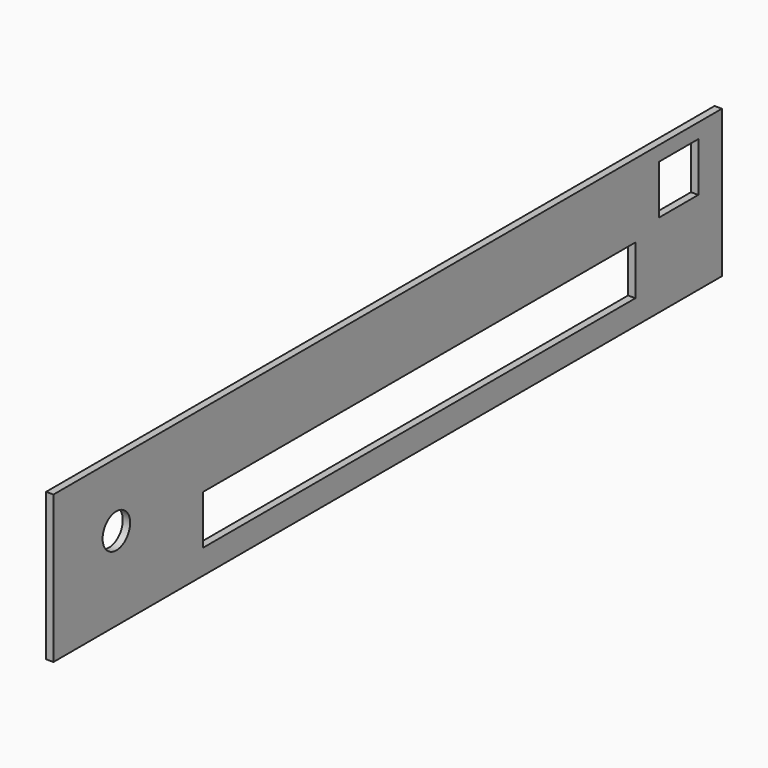
from build123d import *

# Parameters (mm, degrees)
BOX021_W          = 10
BOX021_H          = 10
BOX021_DEPTH      = 10
BOX004_W          = 10
BOX004_H          = 110
BOX004_DEPTH      = 10
CYLINDER004_R     = 3.5
CYLINDER004_DEPTH = 10
BOX002_W          = 1.5
BOX002_H          = 170
BOX002_DEPTH      = 30


with BuildPart() as reset:
    # Box021 → Box021 (new body)
    with BuildSketch(Plane(origin=(-2, 154, 7), x_dir=(1, 0, 0), z_dir=(0, 0, 1))):
        with Locations((5, 5)):
            Rectangle(BOX021_W, BOX021_H)
    extrude(amount=BOX021_DEPTH)


with BuildPart() as cube003:
    # Box004 → Box004 (new body)
    with BuildSketch(Plane(origin=(-3, 38, -5), x_dir=(1, 0, 0), z_dir=(0, 0, 1))):
        with Locations((5, 55)):
            Rectangle(BOX004_W, BOX004_H)
    extrude(amount=BOX004_DEPTH)


with BuildPart() as pwrjack:
    # Cylinder004 → Cylinder004 (new body)
    with BuildSketch(Plane(origin=(-3, 16, 7), x_dir=(0, 0, -1), z_dir=(1, 0, 0))):
        Circle(CYLINDER004_R)
    extrude(amount=CYLINDER004_DEPTH)


with BuildPart() as cut006:
    # Box002 → Box002 (new body)
    with BuildSketch(Plane.XY.offset(-10)):
        with Locations((0.75, 85)):
            Rectangle(BOX002_W, BOX002_H)
    extrude(amount=BOX002_DEPTH)

    # Cut003: cut pwrjack
    add(pwrjack.part, mode=Mode.SUBTRACT)

    # Cut: cut Cube003
    add(cube003.part, mode=Mode.SUBTRACT)

    # Cut006: cut reset
    add(reset.part, mode=Mode.SUBTRACT)


solid = cut006.part
